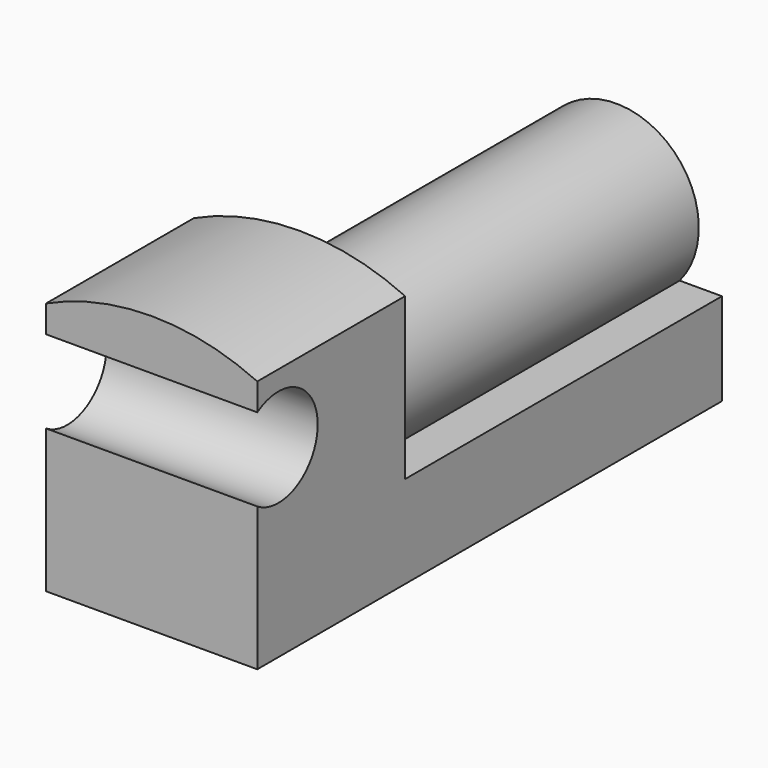
from build123d import *

# Parameters (mm, degrees)
F1_DEPTH = 44.45
F3_DEPTH = 50.8
F5_DEPTH = 95.25


with BuildPart() as f1:
    # F0 (on Front) → F1 (new body)
    with BuildSketch(Plane.XZ):
        with BuildLine():
            Line((-32.0718213916, -23.4942715615), (18.7281786084, -23.4942715615))
            Line((18.7281786084, -23.4942715615), (18.7281786084, 37.4657284385))
            ThreePointArc((18.7281786084, 37.4657284385), (-6.6718213916, 43.0537284385), (-32.0718213916, 37.4657284385))
            Line((-32.0718213916, 37.4657284385), (-32.0718213916, -23.4942715615))
        make_face()
    extrude(amount=F1_DEPTH)

    # F2 (on face) → F3 (cut)
    with BuildSketch(Plane(origin=(-32.0718213916, 0, 0), x_dir=(0, -1, 0), z_dir=(-1, 0, 0))):
        with BuildLine():
            Line((44.45, 10.9887497426), (44.45, 30.9227071344))
            ThreePointArc((44.45, 30.9227071344), (26.2820829109, 20.9557284385), (44.45, 10.9887497426))
        make_face()
    extrude(amount=-F3_DEPTH, mode=Mode.SUBTRACT)

    # F4 (on face) → F5 (join)
    with BuildSketch(Plane(origin=(0, 0, 0), x_dir=(-1, 0, 0), z_dir=(0, 1, 0))):
        with BuildLine():
            ThreePointArc((26.5125769861, 11.4307284385), (-0.0859693436, 30.0851608057), (-8.5655071407, -1.276726136))
            Line((-8.5655071407, -1.276726136), (21.9091499238, -1.276726136))
            ThreePointArc((21.9091499238, -1.276726136), (25.3262537588, 4.6729377033), (26.5125769861, 11.4307284385))
        make_face()
        with BuildLine():
            Line((-18.7281786084, -1.276726136), (-18.7281786084, -23.4942715615))
            Line((-18.7281786084, -23.4942715615), (32.0718213916, -23.4942715615))
            Line((32.0718213916, -23.4942715615), (32.0718213916, -1.276726136))
            Line((32.0718213916, -1.276726136), (21.9091499238, -1.276726136))
            ThreePointArc((21.9091499238, -1.276726136), (6.6718213916, -8.410027156), (-8.5655071407, -1.276726136))
            Line((-8.5655071407, -1.276726136), (-18.7281786084, -1.276726136))
        make_face()
        with BuildLine():
            Line((21.9091499238, -1.276726136), (-8.5655071407, -1.276726136))
            ThreePointArc((-8.5655071407, -1.276726136), (6.6718213916, -8.410027156), (21.9091499238, -1.276726136))
        make_face()
    extrude(amount=F5_DEPTH)


solid = f1.part
